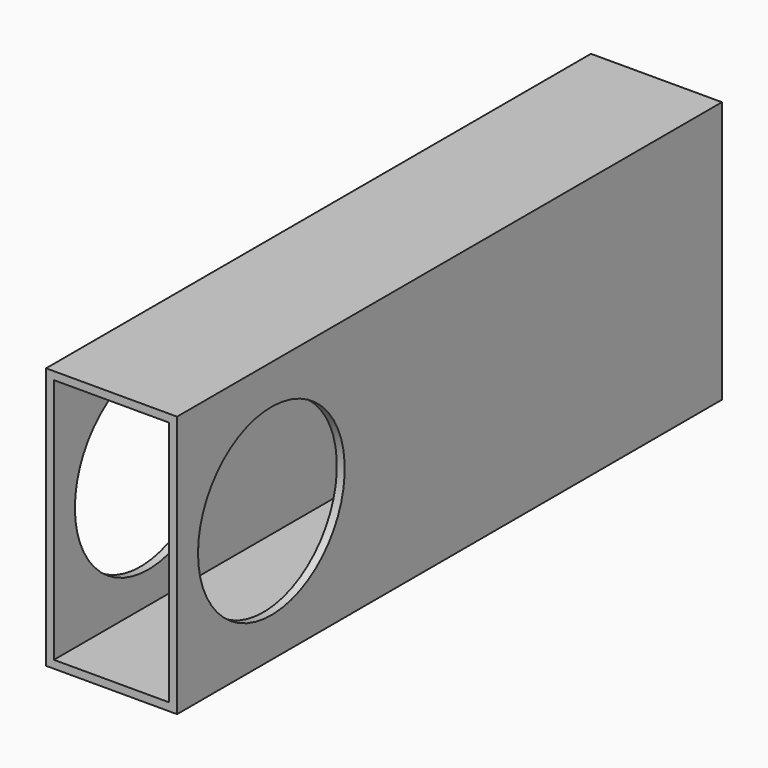
from build123d import *

# Parameters (mm, degrees)
F0_W     = 50
F0_H     = 100
F0_W_2   = 44
F0_H_2   = 94
F1_DEPTH = 130
F3_D     = 70


with BuildPart() as f1:
    # F0 (on Front) → F1 (new body, symmetric)
    with BuildSketch(Plane.XZ):
        Rectangle(F0_W, F0_H)
        Rectangle(F0_W_2, F0_H_2, mode=Mode.SUBTRACT)
    extrude(amount=F1_DEPTH, both=True)

    # F3 (through all)
    with Locations(Plane.YZ.offset(25)):
        with Locations((-85, 0)):
            Hole(F3_D / 2)


solid = f1.part
